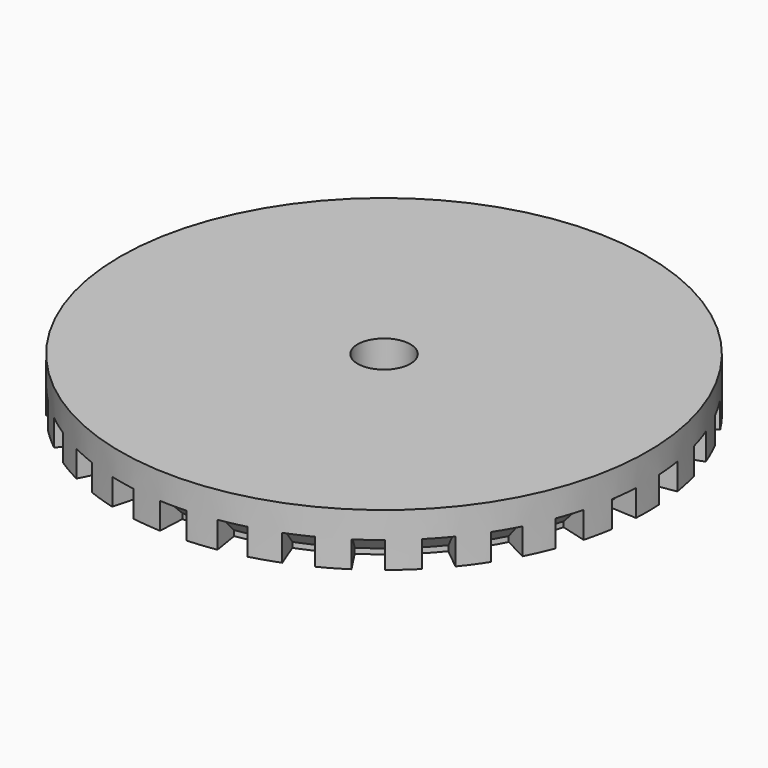
from build123d import *

# Parameters (mm, degrees)
F0_W      = 2
F0_H      = 2
F0_H_2    = 1
F2_W      = 12
F2_H      = 12
F3_DEPTH  = 25
F4_DEPTH  = 25
F7_DEPTH  = 2
F9_DEPTH  = 1
F10_SIZE  = 0.8
F11_DEPTH = 14


with BuildPart() as f1:
    # F0 (on Front) → F1 (revolve)
    with BuildSketch(Plane.XZ):
        Polygon((-6, -2), (-6, 0), (-6, 1), (-6, 11), (-8, 11), (-8, -2), align=None)
        Polygon((-1, -2), (-1, 0), (-5, 0), (-6, 0), (-6, -2), align=None)
        Polygon((-5, 12), (-1, 12), (-1, 14), (-8, 14), (-8, 12), (-6, 12), align=None)
        with Locations((-9, 13)):
            Rectangle(F0_W, F0_H)
        with Locations((-7, 11.5)):
            Rectangle(F0_W, F0_H_2)
    revolve(axis=Axis((0, 0, 11), (0, 0, 1)))

    # F2 (on Front) → F3 (cut)
    with BuildSketch(Plane.XZ):
        with Locations((0, 6)):
            Rectangle(F2_W, F2_H)
    extrude(amount=-F3_DEPTH, mode=Mode.SUBTRACT)

    # F2 (on Front) → F4 (cut)
    with BuildSketch(Plane.XZ):
        with Locations((0, 6)):
            Rectangle(F2_W, F2_H)
    extrude(amount=F4_DEPTH, mode=Mode.SUBTRACT)

    # F6 (on face) → F7 (join)
    with BuildSketch(Plane.YZ.offset(-6)):
        with BuildLine():
            ThreePointArc((1, 6), (0.7071067812, 6.7071067812), (0, 7))
            Line((0, 7), (0, 6))
            Line((0, 6), (1, 6))
        make_face()
        with BuildLine():
            ThreePointArc((0, 5), (0.7071067812, 5.2928932188), (1, 6))
            Line((1, 6), (0, 6))
            Line((0, 6), (0, 5))
        make_face()
        with BuildLine():
            Line((0, 5), (0, 6))
            Line((0, 6), (-1, 6))
            ThreePointArc((-1, 6), (-0.7071067812, 5.2928932188), (0, 5))
        make_face()
        with BuildLine():
            Line((0, 6), (0, 7))
            ThreePointArc((0, 7), (-0.7071067812, 6.7071067812), (-1, 6))
            Line((-1, 6), (0, 6))
        make_face()
    extrude(amount=F7_DEPTH)

    # F8 (on face) → F9 (cut)
    with BuildSketch(Plane(origin=(0, 0, 12), x_dir=(1, 0, 0), z_dir=(0, 0, -1))):
        with BuildLine():
            Line((-0.5, 9.9874921777), (-0.45, 8.9887429599))
            ThreePointArc((-0.45, 8.9887429599), (0, 9), (0.45, 8.9887429599))
            Line((0.45, 8.9887429599), (0.5, 9.9874921777))
            ThreePointArc((0.5, 9.9874921777), (0, 10), (-0.5, 9.9874921777))
        make_face()
        with BuildLine():
            Line((1.5874425853, 9.8731973564), (1.4286983268, 8.8858776208))
            ThreePointArc((1.4286983268, 8.8858776208), (1.8712052174, 8.8033284066), (2.3090311675, 8.698757099))
            Line((2.3090311675, 8.698757099), (2.5655901861, 9.6652856656))
            ThreePointArc((2.5655901861, 9.6652856656), (2.0791169082, 9.7814760073), (1.5874425853, 9.8731973564))
        make_face()
        with BuildLine():
            Line((3.6055063123, 9.3273964337), (3.2449556811, 8.3946567904))
            ThreePointArc((3.2449556811, 8.3946567904), (3.6606297877, 8.2219091188), (4.0671465929, 8.0285938116))
            Line((4.0671465929, 8.0285938116), (4.5190517699, 8.9206597907))
            ThreePointArc((4.5190517699, 8.9206597907), (4.0673664308, 9.1354545764), (3.6055063123, 9.3273964337))
        make_face()
        with BuildLine():
            Line((5.4659921123, 8.3739435291), (4.919392901, 7.5365491762))
            ThreePointArc((4.919392901, 7.5365491762), (5.2900672706, 7.2811529494), (5.647508196, 7.0075424491))
            Line((5.647508196, 7.0075424491), (6.2750091066, 7.7861582768))
            ThreePointArc((6.2750091066, 7.7861582768), (5.8778525229, 8.0901699437), (5.4659921123, 8.3739435291))
        make_face()
        with BuildLine():
            ThreePointArc((6.3788290454, 6.3490581987), (6.6883034293, 6.0221754572), (6.9810465911, 5.6802278557))
            Line((6.9810465911, 5.6802278557), (7.7567184345, 6.3113642841))
            ThreePointArc((7.7567184345, 6.3113642841), (7.4314482548, 6.6913060636), (7.0875878282, 7.0545091096))
            Line((7.0875878282, 7.0545091096), (6.3788290454, 6.3490581987))
        make_face()
        with BuildLine():
            ThreePointArc((7.5594797514, 4.8840829117), (7.7942286341, 4.5), (8.0094797514, 4.1046600483))
            Line((8.0094797514, 4.1046600483), (8.899421946, 4.560733387))
            ThreePointArc((8.899421946, 4.560733387), (8.6602540378, 5), (8.399421946, 5.4267587908))
            Line((8.399421946, 5.4267587908), (7.5594797514, 4.8840829117))
        make_face()
        with BuildLine():
            ThreePointArc((8.4097449179, 3.205649765), (8.5595086467, 2.7811529494), (8.6878602128, 2.3496989004))
            Line((8.6878602128, 2.3496989004), (9.6531780143, 2.610776556))
            ThreePointArc((9.6531780143, 2.610776556), (9.510565163, 3.0901699437), (9.3441610199, 3.5618330722))
            Line((9.3441610199, 3.5618330722), (8.4097449179, 3.205649765))
        make_face()
        with BuildLine():
            ThreePointArc((8.892463877, 1.3871143412), (8.9506970583, 0.9407561694), (8.986539494, 0.4920446354))
            Line((8.986539494, 0.4920446354), (9.9850438822, 0.5467162616))
            ThreePointArc((9.9850438822, 0.5467162616), (9.9452189537, 1.0452846327), (9.8805154189, 1.5412381569))
            Line((9.8805154189, 1.5412381569), (8.892463877, 1.3871143412))
        make_face()
        with BuildLine():
            Line((9.9850438822, -0.5467162616), (8.986539494, -0.4920446354))
            ThreePointArc((8.986539494, -0.4920446354), (8.9506970583, -0.9407561694), (8.892463877, -1.3871143412))
            Line((8.892463877, -1.3871143412), (9.8805154189, -1.5412381569))
            ThreePointArc((9.8805154189, -1.5412381569), (9.9452189537, -1.0452846327), (9.9850438822, -0.5467162616))
        make_face()
        with BuildLine():
            Line((9.6531780143, -2.610776556), (8.6878602128, -2.3496989004))
            ThreePointArc((8.6878602128, -2.3496989004), (8.5595086467, -2.7811529494), (8.4097449179, -3.205649765))
            Line((8.4097449179, -3.205649765), (9.3441610199, -3.5618330722))
            ThreePointArc((9.3441610199, -3.5618330722), (9.510565163, -3.0901699437), (9.6531780143, -2.610776556))
        make_face()
        with BuildLine():
            Line((8.899421946, -4.560733387), (8.0094797514, -4.1046600483))
            ThreePointArc((8.0094797514, -4.1046600483), (7.7942286341, -4.5), (7.5594797514, -4.8840829117))
            Line((7.5594797514, -4.8840829117), (8.399421946, -5.4267587908))
            ThreePointArc((8.399421946, -5.4267587908), (8.6602540378, -5), (8.899421946, -4.560733387))
        make_face()
        with BuildLine():
            ThreePointArc((6.9810465911, -5.6802278557), (6.6883034293, -6.0221754572), (6.3788290454, -6.3490581987))
            Line((6.3788290454, -6.3490581987), (7.0875878282, -7.0545091096))
            ThreePointArc((7.0875878282, -7.0545091096), (7.4314482548, -6.6913060636), (7.7567184345, -6.3113642841))
            Line((7.7567184345, -6.3113642841), (6.9810465911, -5.6802278557))
        make_face()
        with BuildLine():
            Line((6.2750091066, -7.7861582768), (5.647508196, -7.0075424491))
            ThreePointArc((5.647508196, -7.0075424491), (5.2900672706, -7.2811529494), (4.919392901, -7.5365491762))
            Line((4.919392901, -7.5365491762), (5.4659921123, -8.3739435291))
            ThreePointArc((5.4659921123, -8.3739435291), (5.8778525229, -8.0901699437), (6.2750091066, -7.7861582768))
        make_face()
        with BuildLine():
            Line((-2.5655901861, 9.6652856656), (-2.3090311675, 8.698757099))
            ThreePointArc((-2.3090311675, 8.698757099), (-1.8712052174, 8.8033284066), (-1.4286983268, 8.8858776208))
            Line((-1.4286983268, 8.8858776208), (-1.5874425853, 9.8731973564))
            ThreePointArc((-1.5874425853, 9.8731973564), (-2.0791169082, 9.7814760073), (-2.5655901861, 9.6652856656))
        make_face()
        with BuildLine():
            Line((-4.5190517699, 8.9206597907), (-4.0671465929, 8.0285938116))
            ThreePointArc((-4.0671465929, 8.0285938116), (-3.6606297877, 8.2219091188), (-3.2449556811, 8.3946567904))
            Line((-3.2449556811, 8.3946567904), (-3.6055063123, 9.3273964337))
            ThreePointArc((-3.6055063123, 9.3273964337), (-4.0673664308, 9.1354545764), (-4.5190517699, 8.9206597907))
        make_face()
        with BuildLine():
            Line((-6.2750091066, 7.7861582768), (-5.647508196, 7.0075424491))
            ThreePointArc((-5.647508196, 7.0075424491), (-5.2900672706, 7.2811529494), (-4.919392901, 7.5365491762))
            Line((-4.919392901, 7.5365491762), (-5.4659921123, 8.3739435291))
            ThreePointArc((-5.4659921123, 8.3739435291), (-5.8778525229, 8.0901699437), (-6.2750091066, 7.7861582768))
        make_face()
        with BuildLine():
            ThreePointArc((-6.9810465911, 5.6802278557), (-6.6883034293, 6.0221754572), (-6.3788290454, 6.3490581987))
            Line((-6.3788290454, 6.3490581987), (-7.0875878282, 7.0545091096))
            ThreePointArc((-7.0875878282, 7.0545091096), (-7.4314482548, 6.6913060636), (-7.7567184345, 6.3113642841))
            Line((-7.7567184345, 6.3113642841), (-6.9810465911, 5.6802278557))
        make_face()
        with BuildLine():
            ThreePointArc((-8.0094797514, 4.1046600483), (-7.7942286341, 4.5), (-7.5594797514, 4.8840829117))
            Line((-7.5594797514, 4.8840829117), (-8.399421946, 5.4267587908))
            ThreePointArc((-8.399421946, 5.4267587908), (-8.6602540378, 5), (-8.899421946, 4.560733387))
            Line((-8.899421946, 4.560733387), (-8.0094797514, 4.1046600483))
        make_face()
        with BuildLine():
            Line((-9.6531780143, 2.610776556), (-8.6878602128, 2.3496989004))
            ThreePointArc((-8.6878602128, 2.3496989004), (-8.5595086467, 2.7811529494), (-8.4097449179, 3.205649765))
            Line((-8.4097449179, 3.205649765), (-9.3441610199, 3.5618330722))
            ThreePointArc((-9.3441610199, 3.5618330722), (-9.510565163, 3.0901699437), (-9.6531780143, 2.610776556))
        make_face()
        with BuildLine():
            Line((-9.9850438822, 0.5467162616), (-8.986539494, 0.4920446354))
            ThreePointArc((-8.986539494, 0.4920446354), (-8.9506970583, 0.9407561694), (-8.892463877, 1.3871143412))
            Line((-8.892463877, 1.3871143412), (-9.8805154189, 1.5412381569))
            ThreePointArc((-9.8805154189, 1.5412381569), (-9.9452189537, 1.0452846327), (-9.9850438822, 0.5467162616))
        make_face()
        with BuildLine():
            Line((-9.8805154189, -1.5412381569), (-8.892463877, -1.3871143412))
            ThreePointArc((-8.892463877, -1.3871143412), (-8.9506970583, -0.9407561694), (-8.986539494, -0.4920446354))
            Line((-8.986539494, -0.4920446354), (-9.9850438822, -0.5467162616))
            ThreePointArc((-9.9850438822, -0.5467162616), (-9.9452189537, -1.0452846327), (-9.8805154189, -1.5412381569))
        make_face()
        with BuildLine():
            Line((-9.3441610199, -3.5618330722), (-8.4097449179, -3.205649765))
            ThreePointArc((-8.4097449179, -3.205649765), (-8.5595086467, -2.7811529494), (-8.6878602128, -2.3496989004))
            Line((-8.6878602128, -2.3496989004), (-9.6531780143, -2.610776556))
            ThreePointArc((-9.6531780143, -2.610776556), (-9.510565163, -3.0901699437), (-9.3441610199, -3.5618330722))
        make_face()
        with BuildLine():
            Line((-8.399421946, -5.4267587908), (-7.5594797514, -4.8840829117))
            ThreePointArc((-7.5594797514, -4.8840829117), (-7.7942286341, -4.5), (-8.0094797514, -4.1046600483))
            Line((-8.0094797514, -4.1046600483), (-8.899421946, -4.560733387))
            ThreePointArc((-8.899421946, -4.560733387), (-8.6602540378, -5), (-8.399421946, -5.4267587908))
        make_face()
        with BuildLine():
            Line((-7.0875878282, -7.0545091096), (-6.3788290454, -6.3490581987))
            ThreePointArc((-6.3788290454, -6.3490581987), (-6.6883034293, -6.0221754572), (-6.9810465911, -5.6802278557))
            Line((-6.9810465911, -5.6802278557), (-7.7567184345, -6.3113642841))
            ThreePointArc((-7.7567184345, -6.3113642841), (-7.4314482548, -6.6913060636), (-7.0875878282, -7.0545091096))
        make_face()
        with BuildLine():
            Line((4.5190517699, -8.9206597907), (4.0671465929, -8.0285938116))
            ThreePointArc((4.0671465929, -8.0285938116), (3.6606297877, -8.2219091188), (3.2449556811, -8.3946567904))
            Line((3.2449556811, -8.3946567904), (3.6055063123, -9.3273964337))
            ThreePointArc((3.6055063123, -9.3273964337), (4.0673664308, -9.1354545764), (4.5190517699, -8.9206597907))
        make_face()
        with BuildLine():
            Line((2.5655901861, -9.6652856656), (2.3090311675, -8.698757099))
            ThreePointArc((2.3090311675, -8.698757099), (1.8712052174, -8.8033284066), (1.4286983268, -8.8858776208))
            Line((1.4286983268, -8.8858776208), (1.5874425853, -9.8731973564))
            ThreePointArc((1.5874425853, -9.8731973564), (2.0791169082, -9.7814760073), (2.5655901861, -9.6652856656))
        make_face()
        with BuildLine():
            Line((0.5, -9.9874921777), (0.45, -8.9887429599))
            ThreePointArc((0.45, -8.9887429599), (0, -9), (-0.45, -8.9887429599))
            Line((-0.45, -8.9887429599), (-0.5, -9.9874921777))
            ThreePointArc((-0.5, -9.9874921777), (0, -10), (0.5, -9.9874921777))
        make_face()
        with BuildLine():
            Line((-1.5874425853, -9.8731973564), (-1.4286983268, -8.8858776208))
            ThreePointArc((-1.4286983268, -8.8858776208), (-1.8712052174, -8.8033284066), (-2.3090311675, -8.698757099))
            Line((-2.3090311675, -8.698757099), (-2.5655901861, -9.6652856656))
            ThreePointArc((-2.5655901861, -9.6652856656), (-2.0791169082, -9.7814760073), (-1.5874425853, -9.8731973564))
        make_face()
        with BuildLine():
            Line((-3.6055063123, -9.3273964337), (-3.2449556811, -8.3946567904))
            ThreePointArc((-3.2449556811, -8.3946567904), (-3.6606297877, -8.2219091188), (-4.0671465929, -8.0285938116))
            Line((-4.0671465929, -8.0285938116), (-4.5190517699, -8.9206597907))
            ThreePointArc((-4.5190517699, -8.9206597907), (-4.0673664308, -9.1354545764), (-3.6055063123, -9.3273964337))
        make_face()
        with BuildLine():
            Line((-5.4659921123, -8.3739435291), (-4.919392901, -7.5365491762))
            ThreePointArc((-4.919392901, -7.5365491762), (-5.2900672706, -7.2811529494), (-5.647508196, -7.0075424491))
            Line((-5.647508196, -7.0075424491), (-6.2750091066, -7.7861582768))
            ThreePointArc((-6.2750091066, -7.7861582768), (-5.8778525229, -8.0901699437), (-5.4659921123, -8.3739435291))
        make_face()
    extrude(amount=-F9_DEPTH, mode=Mode.SUBTRACT)

    # F10
    f10_edges = [f1.edges().sort_by_distance(p)[0] for p in [
        (-3.66063, 8.221909, 13),
        (-5.290067, 7.281153, 13),
        (-6.688303, 6.022175, 13),
        (-7.794229, 4.5, 13),
        (-8.559509, 2.781153, 13),
        (-8.950697, 0.940756, 13),
        (-8.950697, -0.940756, 13),
        (-8.559509, -2.781153, 13),
        (-7.794229, -4.5, 13),
        (-6.688303, -6.022175, 13),
        (-5.290067, -7.281153, 13),
        (-3.66063, -8.221909, 13),
        (-1.871205, -8.803328, 13),
        (0, -9, 13),
        (1.871205, -8.803328, 13),
        (3.66063, -8.221909, 13),
        (5.290067, -7.281153, 13),
        (6.688303, -6.022175, 13),
        (7.794229, -4.5, 13),
        (8.559509, -2.781153, 13),
        (8.950697, -0.940756, 13),
        (8.950697, 0.940756, 13),
        (8.559509, 2.781153, 13),
        (7.794229, 4.5, 13),
        (6.688303, 6.022175, 13),
        (-1.871205, 8.803328, 13),
        (0, 9, 13),
        (1.871205, 8.803328, 13),
        (3.66063, 8.221909, 13),
        (5.290067, 7.281153, 13),
    ]]
    chamfer(f10_edges, length=F10_SIZE)

    # F11 (cut): a face of the model
    f11_faces = [f1.faces().sort_by_distance(p)[0] for p in [
        (7.77372583, 0, -2),
    ]]
    extrude(f11_faces, amount=-F11_DEPTH, mode=Mode.SUBTRACT)


solid = f1.part
